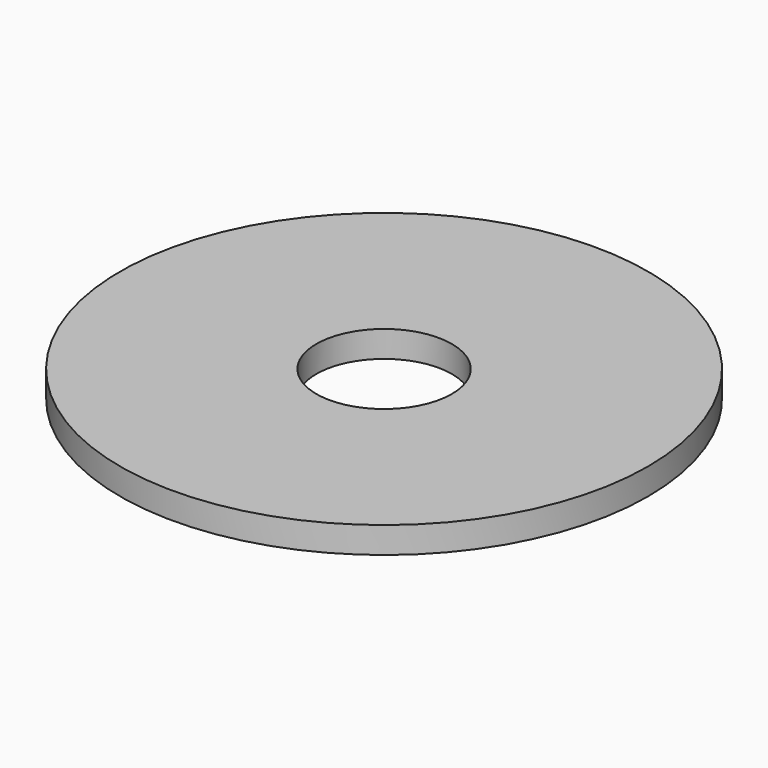
from build123d import *

# Parameters (mm, degrees)
F0_R     = 15
F0_R_2   = 2
F1_DEPTH = 1.5
F2_R     = 3.85
F2_R_2   = 2
F3_DEPTH = 11.5
F4_DEPTH = 25


with BuildPart() as f1:
    # F0 (on Top) → F1 (new body)
    with BuildSketch(Plane.XY):
        Circle(F0_R)
        Circle(F0_R_2, mode=Mode.SUBTRACT)
    extrude(amount=F1_DEPTH)

    # F2 (on face) → F3 (join)
    with BuildSketch(Plane.XY.offset(1.5)):
        Circle(F2_R)
        Circle(F2_R_2, mode=Mode.SUBTRACT)
    extrude(amount=F3_DEPTH)

    # F4 (cut): a face of the model
    f4_faces = [f1.faces().sort_by_distance(p)[0] for p in [
        (-3.7411055557, 0, 13),
    ]]
    extrude(f4_faces, amount=-F4_DEPTH, mode=Mode.SUBTRACT)


solid = f1.part
